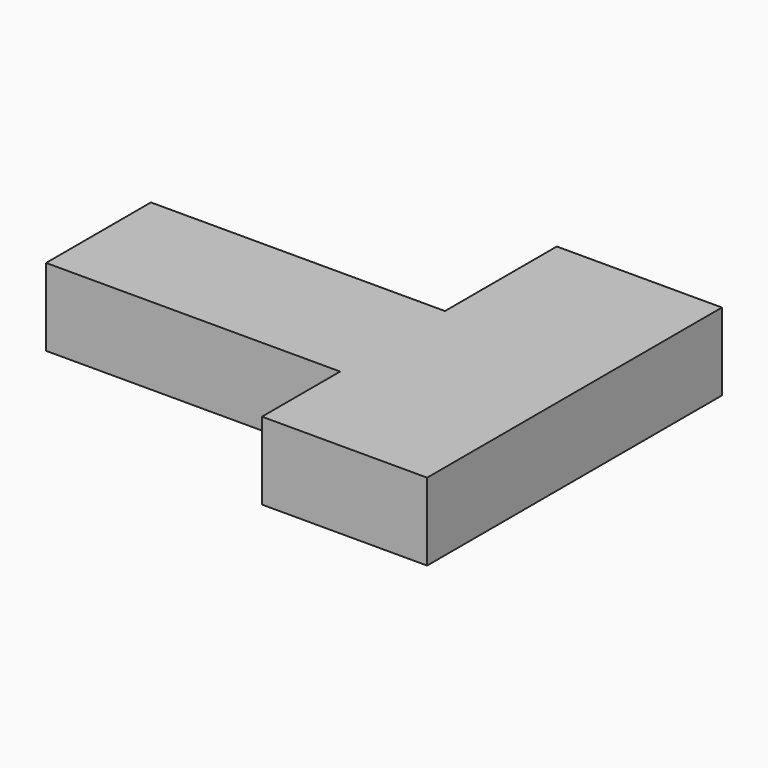
from build123d import *

# Parameters (mm, degrees)
F0_W     = 96.48408
F0_H     = 42.99093
F1_DEPTH = 25.4


with BuildPart() as f1:
    # F0 (on Top) → F1 (new body)
    with BuildSketch(Plane.XY):
        with Locations((-48.24204, 0)):
            Rectangle(F0_W, F0_H)
        Polygon((0, 67.350276), (0, 21.495465), (0, -21.495465), (0, -53.553224), (54.182615, -53.553224), (54.182615, 67.350276), align=None)
    extrude(amount=F1_DEPTH)


solid = f1.part
